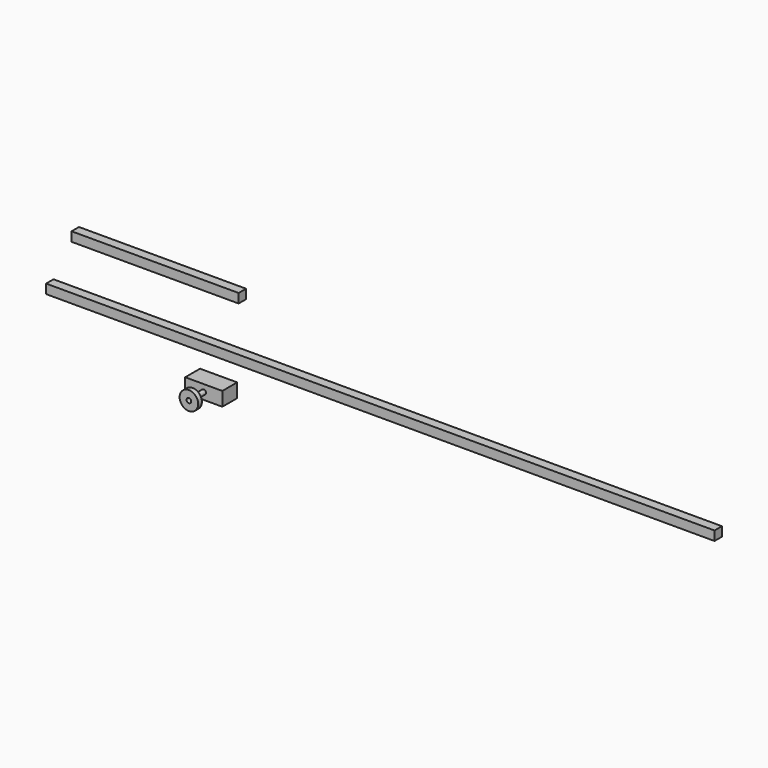
from build123d import *

# Parameters (mm, degrees)
F0_W     = 914.4
F0_H     = 12.7
F0_W_2   = 228.6
F1_DEPTH = 12.7
F2_W     = 50.8
F2_H     = 19.05
F2_R     = 3.175
F3_DEPTH = 25.4
F4_R     = 3.175
F5_DEPTH = 19.05
F6_R     = 12.7
F6_R_2   = 3.175
F7_DEPTH = 6.35


with BuildPart() as f1:
    # F0 (on Front) → F1 (new body)
    with BuildSketch(Plane.XZ):
        with Locations((205.940732, 36.113421)):
            Rectangle(F0_W, F0_H)
        with Locations((-102.119458, 110.425782)):
            Rectangle(F0_W_2, F0_H)
    extrude(amount=F1_DEPTH)


with BuildPart() as f3:
    # F2 (on Front) → F3 (new body)
    with BuildSketch(Plane.XZ):
        with Locations((-25.4, -9.525)):
            Rectangle(F2_W, F2_H)
        with Locations((-25.4, -9.525)):
            Circle(F2_R, mode=Mode.SUBTRACT)
    extrude(amount=F3_DEPTH)


with BuildPart() as f5:
    # F4 (on face) → F5 (new body)
    with BuildSketch(Plane.XZ.offset(25.4)):
        with Locations((-25.4, -9.525)):
            Circle(F4_R)
    extrude(amount=F5_DEPTH)


with BuildPart() as f7:
    # F6 (on face) → F7 (new body)
    with BuildSketch(Plane.XZ.offset(44.45)):
        with Locations((-25.4, -9.525)):
            Circle(F6_R)
        with Locations((-25.4, -9.525)):
            Circle(F6_R_2, mode=Mode.SUBTRACT)
    extrude(amount=F7_DEPTH)


solid = Compound([f1.part, f3.part, f5.part, f7.part])
